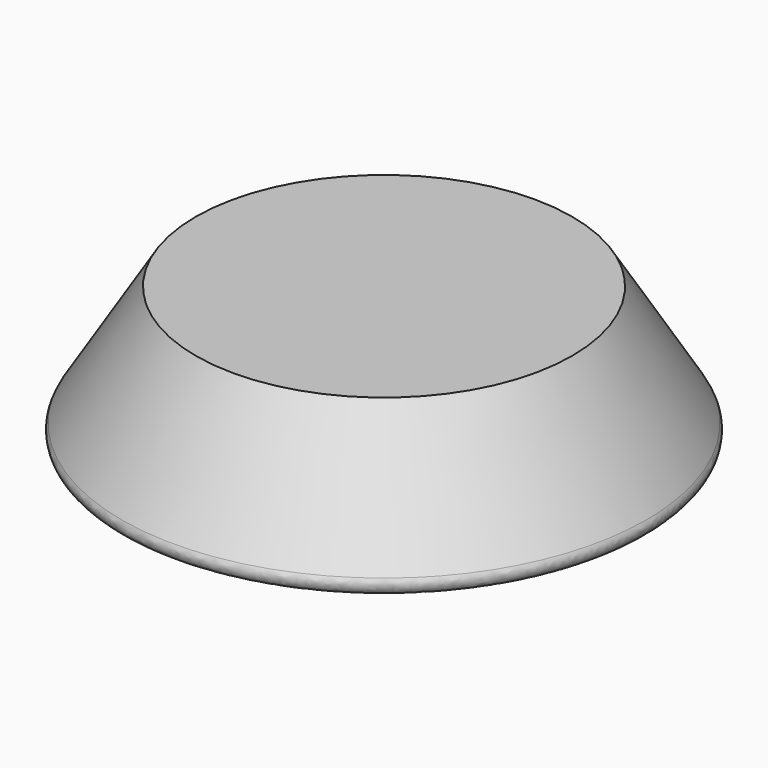
from build123d import *

# Parameters (mm, degrees)
F2_R = 0.7262009789


with BuildPart() as f1:
    # F0 (on Front) → F1 (revolve)
    with BuildSketch(Plane.XZ):
        Polygon((0.0002345588, -41.9154665844), (0.0003745902, -51.0435915844), (18.1574058402, -51.0435915844), (12.5449952487, -41.9154665844), align=None)
    revolve(axis=Axis((0.0003045745, 0, -46.4795290844), (1.53407e-05, 0, -0.9999999999)))

    # F2
    f2_edges = [f1.edges().sort_by_distance(p)[0] for p in [
        (-18.156657, 0, -51.044149),
    ]]
    fillet(f2_edges, radius=F2_R)


solid = f1.part
